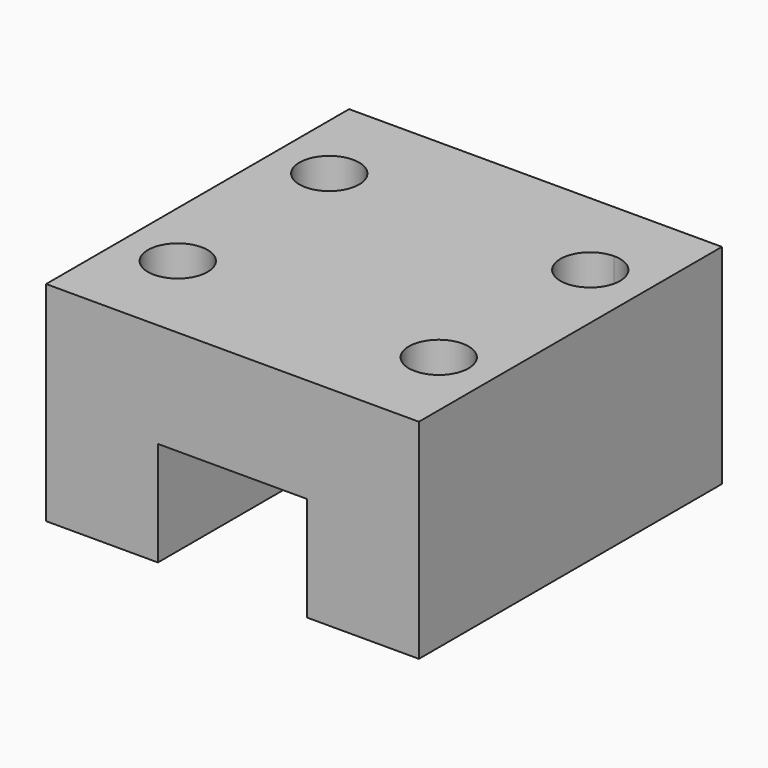
from build123d import *

# Parameters (mm, degrees)
F1_DEPTH = 25.4
F2_R     = 2
F3_DEPTH = 14.001


with BuildPart() as f1:
    # F0 (on Front) → F1 (new body)
    with BuildSketch(Plane.XZ):
        Polygon((-11.982759, 14), (-11.982759, 0), (-4.482759, 0), (-4.482759, 7), (5.517241, 7), (5.517241, 0), (13.017241, 0), (13.017241, 14), align=None)
    extrude(amount=F1_DEPTH)

    # F2 (on face) → F3 (cut, through all)
    with BuildSketch(Plane(origin=(0, 0, 0), x_dir=(1, 0, 0), z_dir=(0, 0, -1))):
        with BuildLine():
            ThreePointArc((9.267241, 21.05), (7.853028, 17.635786), (11.267241, 19.05))
            ThreePointArc((11.267241, 19.05), (10.681455, 20.464214), (9.267241, 21.05))
        make_face()
        with BuildLine():
            ThreePointArc((9.267241, 4.35), (10.681455, 4.935786), (11.267241, 6.35))
            ThreePointArc((11.267241, 6.35), (7.853028, 7.764214), (9.267241, 4.35))
        make_face()
        with Locations((-8.232759, 6.35)):
            Circle(F2_R)
        with Locations((-8.232759, 19.05)):
            Circle(F2_R)
    extrude(amount=-F3_DEPTH, mode=Mode.SUBTRACT)


solid = f1.part
